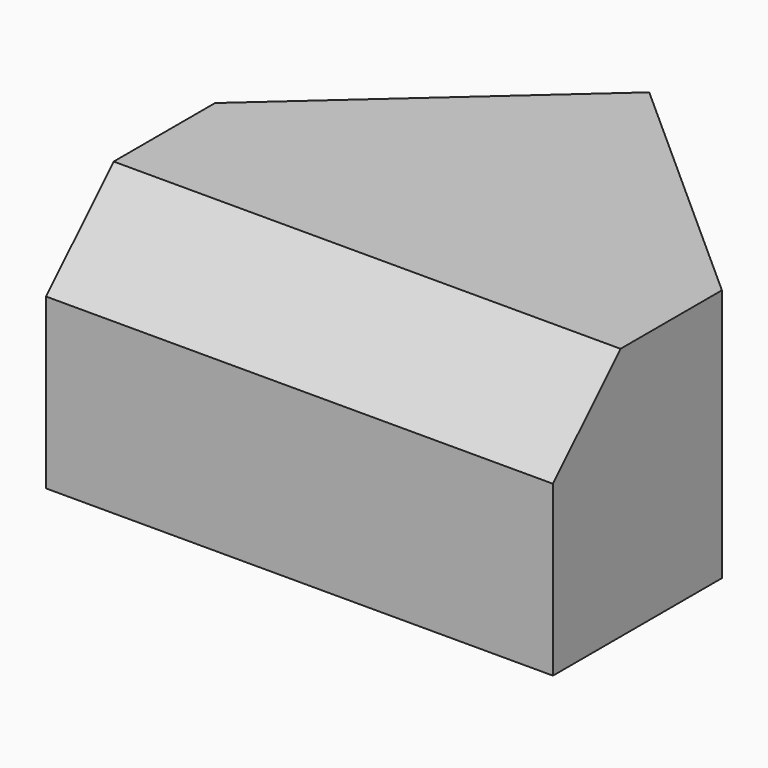
from build123d import *

# Parameters (mm, degrees)
F0_W     = 152.4
F0_H     = 63.5
F1_DEPTH = 76.2
F2_SIZE  = 25.4
F3_T     = -12.7


with BuildPart() as f1:
    # F0 (on Top) → F1 (new body)
    with BuildSketch(Plane.XY):
        with Locations((0, -13.890435)):
            Rectangle(F0_W, F0_H)
        Polygon((0, 85.793309), (-76.2, 17.859565), (76.2, 17.859565), align=None)
    extrude(amount=F1_DEPTH)

    # F2
    f2_edges = [f1.edges().sort_by_distance(p)[0] for p in [
        (0, -45.640435, 76.2),
    ]]
    chamfer(f2_edges, length=F2_SIZE)

    # F3
    f3_openings = [f1.faces().sort_by_distance(p)[0] for p in [
        (0, 5.065891, 0),
    ]]
    offset(amount=F3_T, openings=f3_openings)


solid = f1.part
